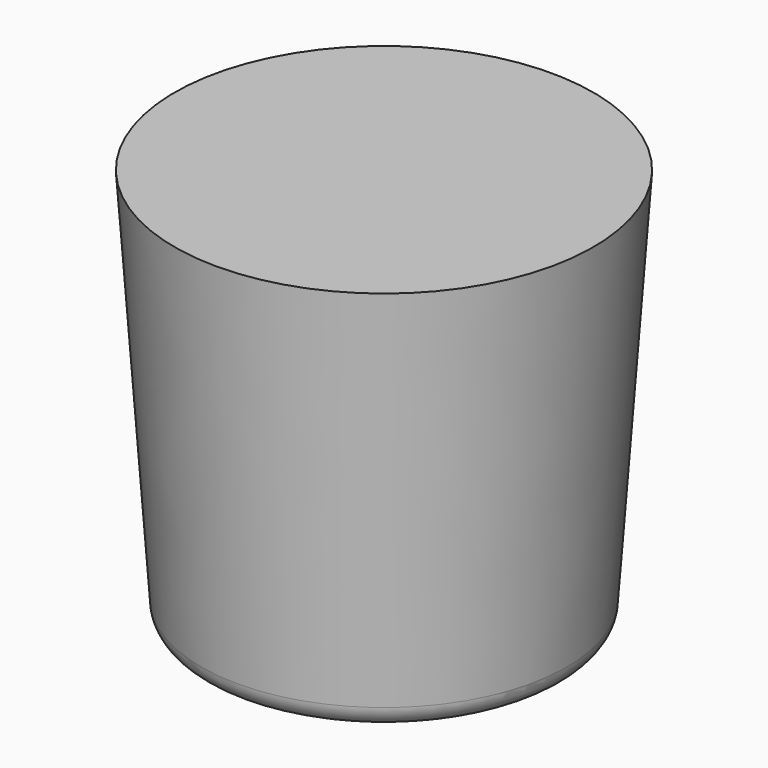
from build123d import *


with BuildPart() as f1:
    # F0 (on Right) → F1 (revolve)
    with BuildSketch(Plane.YZ):
        with BuildLine():
            ThreePointArc((-29.337, 26.490528), (-34.480436, 67.008318), (0, 88.9))
            Line((0, 88.9), (0, 101.6))
            Line((0, 101.6), (-53.168677, 101.6))
            Line((-53.168677, 101.6), (-46.4185, 5.540595))
            ThreePointArc((-46.4185, 5.540595), (-44.537675, 1.599968), (-40.4749, 0))
            Line((-40.4749, 0), (-32.129312, 0))
            Line((-32.129312, 0), (-29.337, 26.490528))
        make_face()
    revolve(axis=Axis((0, 0, 44.45), (0, 0, 1)))


solid = f1.part
